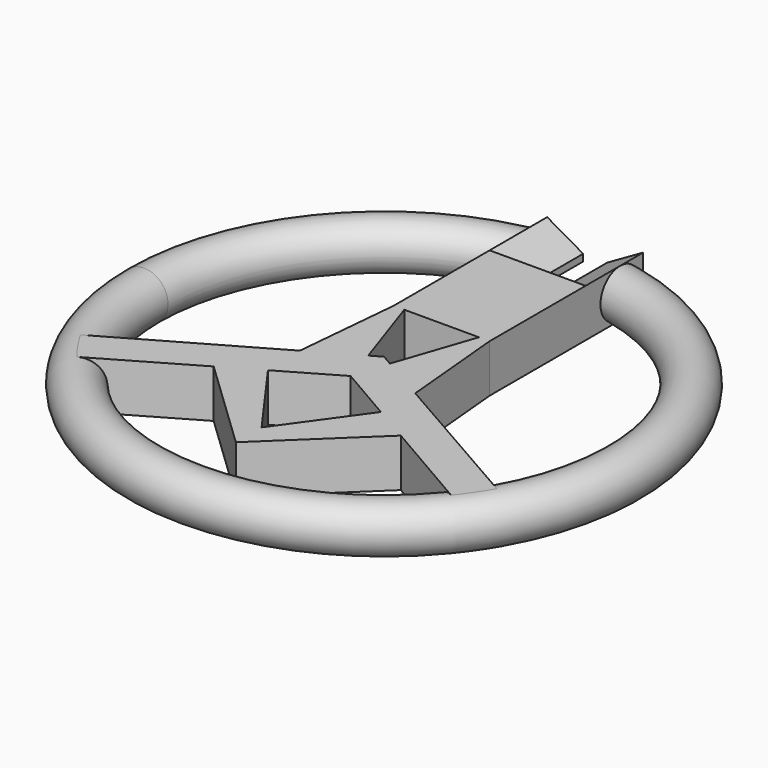
from build123d import *

# Parameters (mm, degrees)
F1_R          = 2
F3_DEPTH      = 2
F3_DEPTH_BACK = 2
F5_DEPTH      = 6


with BuildPart() as f2:
    # F1 (on Front) → F2 (revolve)
    with BuildSketch(Plane.XZ):
        with Locations((-20, 0)):
            Circle(F1_R)
    revolve(axis=Axis((0, 0, 0), (0, 0, 1)))

    # F0 (on Top) → F3 (join, two sides)
    with BuildSketch(Plane.XY) as f3_sk:
        with BuildLine():
            Line((-4, 22), (-4, 19.5959179423))
            ThreePointArc((-4, 19.5959179423), (0, 20), (4, 19.5959179423))
            Line((4, 19.5959179423), (4, 22))
            Line((4, 22), (-4, 22))
        make_face()
        with BuildLine():
            Line((-4.8084821497, -2.7537909563), (-17.3553911534, -9.939335889))
            ThreePointArc((-17.3553911534, -9.939335889), (-16.5283374004, -11.2611750176), (-15.600821248, -12.5145665682))
            Line((-15.600821248, -12.5145665682), (-7.800410624, -7.9989998059))
            Line((-7.800410624, -7.9989998059), (0, -15.4386200011))
            Line((0, -15.4386200011), (7.800410624, -7.9989998059))
            Line((7.800410624, -7.9989998059), (15.600821248, -12.5145665682))
            ThreePointArc((15.600821248, -12.5145665682), (16.5283374004, -11.2611750176), (17.3553911534, -9.939335889))
            Line((17.3553911534, -9.939335889), (4.8084821497, -2.7537909563))
            Line((4.8084821497, -2.7537909563), (4, 6))
            Line((4, 6), (4, 19.5959179423))
            ThreePointArc((4, 19.5959179423), (0, 20), (-4, 19.5959179423))
            Line((-4, 19.5959179423), (-4, 6))
            Line((-4, 6), (-4.8084821497, -2.7537909563))
        make_face()
        Polygon((4.7079357362, -6.2088021497), (0, -12.7548025921), (-4.7079357362, -6.2088021497), (0, -3.4834330436), align=None, mode=Mode.SUBTRACT)
        Polygon((0.9022829707, -0.5167324339), (0, 0), (-0.9022829707, -0.5167324339), (-3.1107885297, 6), (0, 6), (3.1107885297, 6), align=None, mode=Mode.SUBTRACT)
    extrude(amount=F3_DEPTH)
    extrude(f3_sk.sketch, amount=-F3_DEPTH_BACK)

    # F4 (on face) → F5 (cut)
    with BuildSketch(Plane(origin=(0, 22, 0), x_dir=(-1, 0, 0), z_dir=(0, 1, 0))):
        Polygon((0, 2), (0, -2), (4, -2), (1, -0.2857142857), (1, 0), (1, 0.2857142857), (4, 2), align=None)
        Polygon((-1, -0.2857142857), (-4, -2), (0, -2), (0, 2), (-4, 2), (-1, 0.2857142857), (-1, 0), align=None)
    extrude(amount=-F5_DEPTH, mode=Mode.SUBTRACT)


solid = f2.part
